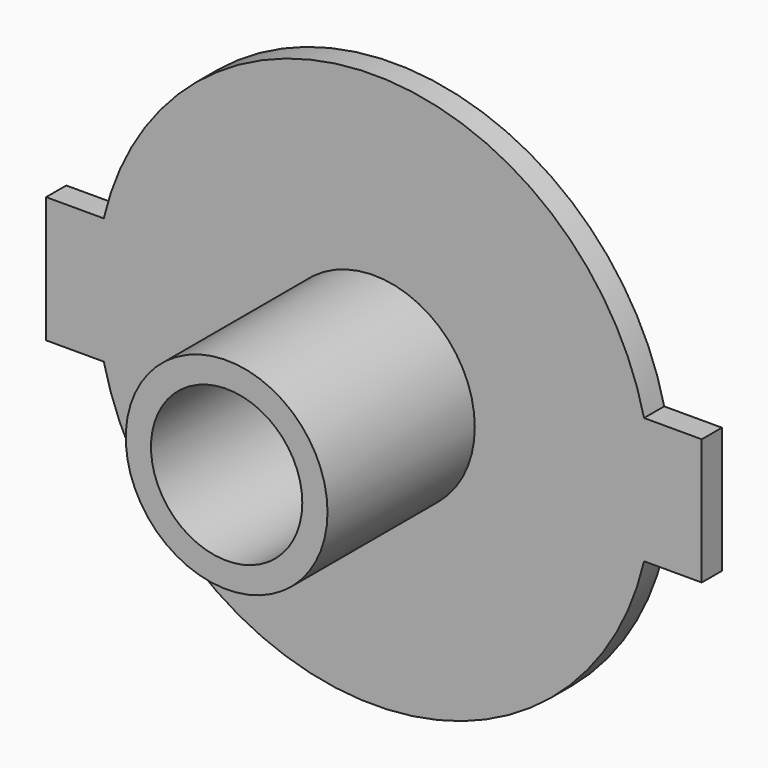
from build123d import *

# Parameters (mm, degrees)
F0_R          = 11
F1_DEPTH      = 1
F3_W          = 26
F3_H          = 5
F4_DEPTH      = 1
F5_R          = 4
F5_R_2        = 3
F7_DEPTH      = 7.3
F6_R          = 3
F8_DEPTH      = 7.301
F8_DEPTH_BACK = 1.001


with BuildPart() as f1:
    # F0 (on Front) → F1 (new body)
    with BuildSketch(Plane.XZ):
        Circle(F0_R)
    extrude(amount=F1_DEPTH)

    # F3 (on face) → F4 (join)
    with BuildSketch(Plane(origin=(0, 0, 0), x_dir=(-1, 0, 0), z_dir=(0, 1, 0))):
        Rectangle(F3_W, F3_H)
    extrude(amount=-F4_DEPTH)

    # F5 (on face) → F7 (join)
    with BuildSketch(Plane.XZ.offset(1)):
        Circle(F5_R)
        Circle(F5_R_2, mode=Mode.SUBTRACT)
    extrude(amount=F7_DEPTH)

    # F6 (on face) → F8 (cut, two sides)
    with BuildSketch(Plane.XZ.offset(1)) as f8_sk:
        Circle(F6_R)
    extrude(amount=F8_DEPTH, mode=Mode.SUBTRACT)
    extrude(f8_sk.sketch, amount=-F8_DEPTH_BACK, mode=Mode.SUBTRACT)


solid = f1.part
